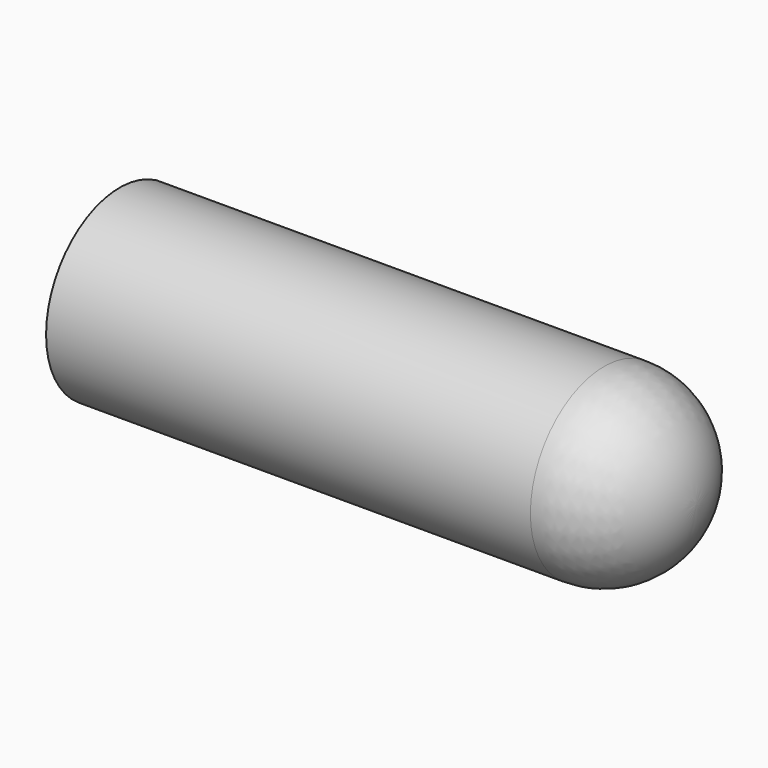
from build123d import *

# Parameters (mm, degrees)
F1_FACE_R = 50.8
F2_DEPTH  = 267.208


with BuildPart() as f1:
    # F0 (on Front) → F1 (revolve)
    with BuildSketch(Plane.XZ):
        with BuildLine():
            ThreePointArc((0, -50.8), (35.921024, -35.921024), (50.8, 0))
            Line((50.8, 0), (0, 0))
            Line((0, 0), (0, -50.8))
        make_face()
    revolve(axis=Axis((25.4, 0, 0), (1, 0, 0)))

    # F1_face (on face) → F2 (join)
    with BuildSketch(Plane(origin=(0, 0, 0), x_dir=(0, -1, 0), z_dir=(-1, 0, 0))):
        Circle(F1_FACE_R)
    extrude(amount=F2_DEPTH)


solid = f1.part
